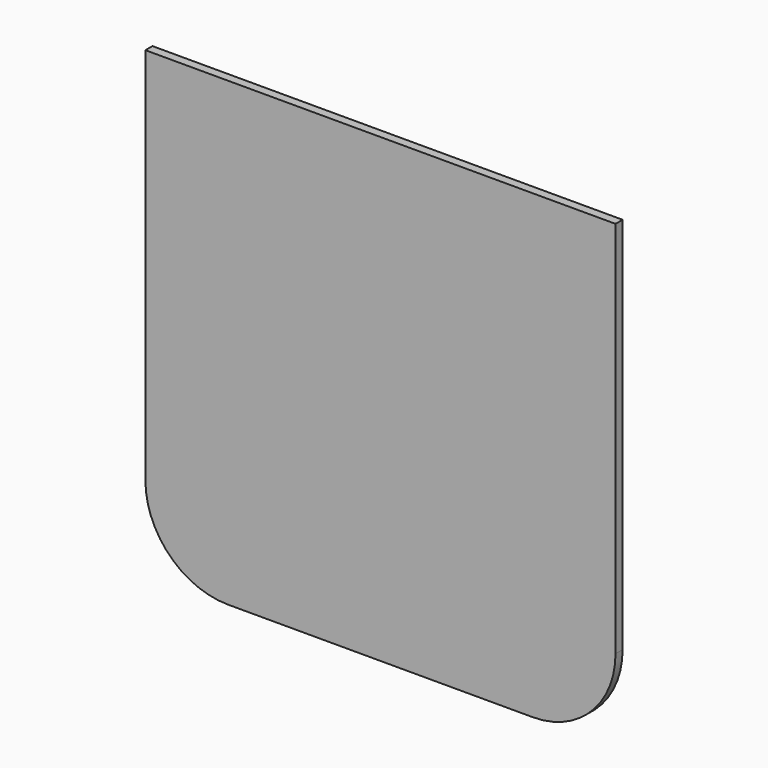
from build123d import *

# Parameters (mm, degrees)
F1_DEPTH = 3


with BuildPart() as f1:
    # F0 (on Front) → F1 (new body)
    with BuildSketch(Plane.XZ):
        with BuildLine():
            Line((79.5, -50), (79.5, 78))
            Line((79.5, 78), (-79.5, 78))
            Line((-79.5, 78), (-79.5, -50))
            ThreePointArc((-79.5, -50), (-71.29899, -69.79899), (-51.5, -78))
            Line((-51.5, -78), (51.5, -78))
            ThreePointArc((51.5, -78), (71.29899, -69.79899), (79.5, -50))
        make_face()
    extrude(amount=F1_DEPTH)


solid = f1.part
